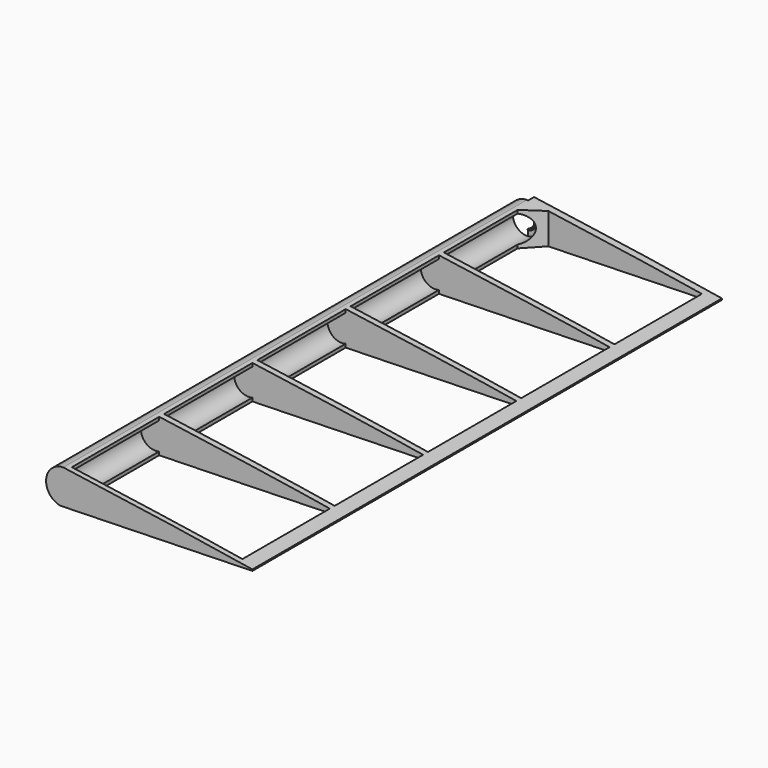
from build123d import *

# Parameters (mm, degrees)
PAD064_DEPTH    = 289
SKETCH154_W     = 106.454956
SKETCH154_H     = 336.690071
POCKET088_DEPTH = 2.5
POCKET089_DEPTH = 300
SKETCH156_W     = 84
SKETCH156_H     = 54.4
SKETCH156_H_2   = 53.8
POCKET090_DEPTH = 100
SKETCH157_R     = 7
POCKET091_DEPTH = 54.4
SKETCH158_R     = 7
POCKET092_DEPTH = 54.4
SKETCH159_R     = 7
POCKET093_DEPTH = 54.4
SKETCH160_R     = 7
POCKET094_DEPTH = 54.4
SKETCH161_R     = 7
POCKET095_DEPTH = 54.4
SKETCH162_R     = 4.05
POCKET096_DEPTH = 6
SKETCH243_R     = 4.5
SKETCH243_R_2   = 3.75
PAD113_DEPTH    = 0.5
CHAMFER007_SIZE = 0.45
SKETCH250_W     = 10.847717
SKETCH250_H     = 3.7
POCKET134_DEPTH = 50
POCKET135_DEPTH = 5
SKETCH251_R     = 0.8
POCKET136_DEPTH = 10


with BuildPart() as part:
    # Sketch152 → Pad064 (new body)
    with BuildSketch(Plane.XZ):
        with BuildLine():
            add(Edge.make_bspline(
                [(299.999063, 0.026825), (299.662766, 0.037193), (298.339429, 0.190401), (295.439956, 0.589669), (290.775356, 1.337839), (284.500044, 2.393262), (276.735212, 3.66473), (267.577355, 5.083019), (257.136483, 6.653879), (245.549215, 8.381993), (232.975291, 10.222771), (219.590016, 12.153256), (205.573823, 14.115503), (191.111579, 16.055183), (176.381713, 17.897983), (161.544489, 19.553409), (146.739309, 20.940939), (132.087536, 21.99009), (117.705275, 22.664279), (103.703346, 22.961168), (90.192549, 22.858072), (77.284675, 22.375726), (65.094168, 21.544938), (53.730431, 20.369385), (43.29002, 18.857963), (33.852484, 17.043697), (25.485501, 14.967735), (18.252292, 12.67281), (12.179436, 10.224412), (7.338355, 7.689021), (3.623023, 5.152403), (1.3546, 2.748114), (-0.314638, 0.590402), (0.575789, -1.804065), (3.482069, -2.72942), (7.386052, -3.91761), (13.030922, -4.754284), (20.096342, -5.463024), (28.645402, -5.933379), (38.56853, -6.201185), (49.790194, -6.284208), (62.196701, -6.193111), (75.660953, -5.967607), (90.034637, -5.629522), (105.153445, -5.226063), (120.83724, -4.775199), (136.895942, -4.296045), (153.13493, -3.818601), (169.356828, -3.345106), (185.36574, -2.889379), (200.968742, -2.465331), (215.974941, -2.074889), (230.201502, -1.715375), (243.47905, -1.394255), (255.639348, -1.103787), (266.55871, -0.849968), (276.034544, -0.603524), (284.209012, -0.340437), (290.324953, -0.117215), (295.955653, 0.018504), (297.364702, 0.013759), (300.343856, 0.01512), (300.000055, 0.026794), (299.999063, 0.026825)],
                knots=[0, 0, 0, 0, 1.017748, 3.99659, 8.779341, 15.189917, 23.087031, 32.383824, 42.990765, 54.76218, 67.530065, 81.114584, 95.333435, 109.988542, 124.889458, 139.866624, 154.774633, 169.496697, 183.930349, 197.964304, 211.506735, 224.45797, 236.709214, 248.156653, 258.723012, 268.346769, 276.97692, 284.567784, 291.102108, 296.573756, 300.992679, 304.39163, 306.761357, 308.43213, 311.131254, 315.298227, 320.951765, 328.080828, 336.654655, 346.609821, 357.866231, 370.316475, 383.83025, 398.264023, 413.449345, 429.202773, 445.334827, 461.646891, 477.940787, 494.021253, 509.693044, 524.767168, 539.054704, 552.387642, 564.607107, 575.560217, 585.109622, 593.180747, 599.700326, 604.53767, 607.540683, 608.560842, 608.563842, 608.563842, 608.563842, 608.563842], degree=3))
        make_face()
    extrude(amount=PAD064_DEPTH)

    # Sketch154 → Pocket088 (cut, symmetric)
    with BuildSketch(Plane.XY):
        with Locations((348.227478, -150.975887)):
            Rectangle(SKETCH154_W, SKETCH154_H)
    extrude(amount=POCKET088_DEPTH, both=True, mode=Mode.SUBTRACT)

    # Sketch155 (on Face4 of Pocket088) → Pocket089 (cut)
    with BuildSketch(Plane.XZ.offset(289)):
        with BuildLine():
            ThreePointArc((202, 14.6), (193.4, 6), (202, -2.6))
            Line((213.747525, -30.946017), (202, -2.6))
            Line((-22.89874, -30.946017), (213.747525, -30.946017))
            Line((-27.727513, 31.780215), (-22.89874, -30.946017))
            Line((188.968875, 46.453211), (-27.727513, 31.780215))
            Line((202, 14.6), (188.968875, 46.453211))
        make_face()
    extrude(amount=-POCKET089_DEPTH, mode=Mode.SUBTRACT)

    # Sketch156 (on DatumPlane) → Pocket090 (cut)
    with BuildSketch(Plane.XY.offset(24)):
        Polygon((204, -11.989348), (204, -57.4), (288, -57.4), (288, -3.6), (212.38935, -3.6), align=None)
        with Locations((246, -87.6)):
            Rectangle(SKETCH156_W, SKETCH156_H)
        with Locations((246, -145)):
            Rectangle(SKETCH156_W, SKETCH156_H)
        with Locations((246, -202.4)):
            Rectangle(SKETCH156_W, SKETCH156_H)
        with Locations((246, -259.5)):
            Rectangle(SKETCH156_W, SKETCH156_H_2)
    extrude(amount=-POCKET090_DEPTH, mode=Mode.SUBTRACT)

    # Sketch157 (on Face24 of Pocket090) → Pocket091 (cut)
    with BuildSketch(Plane.XZ.offset(3.6)):
        with Locations((202, 6)):
            Circle(SKETCH157_R)
    extrude(amount=POCKET091_DEPTH, mode=Mode.SUBTRACT)

    # Sketch158 (on Face19 of Pocket090) → Pocket092 (cut)
    with BuildSketch(Plane.XZ.offset(60.4)):
        with Locations((202, 6)):
            Circle(SKETCH158_R)
    extrude(amount=POCKET092_DEPTH, mode=Mode.SUBTRACT)

    # Sketch159 (on Face15 of Pocket090) → Pocket093 (cut)
    with BuildSketch(Plane.XZ.offset(117.8)):
        with Locations((202, 6)):
            Circle(SKETCH159_R)
    extrude(amount=POCKET093_DEPTH, mode=Mode.SUBTRACT)

    # Sketch160 (on Face11 of Pocket090) → Pocket094 (cut)
    with BuildSketch(Plane.XZ.offset(175.2)):
        with Locations((202, 6)):
            Circle(SKETCH160_R)
    extrude(amount=POCKET094_DEPTH, mode=Mode.SUBTRACT)

    # Sketch161 (on Face7 of Pocket090) → Pocket095 (cut)
    with BuildSketch(Plane.XZ.offset(232.6)):
        with Locations((202, 6)):
            Circle(SKETCH161_R)
    extrude(amount=POCKET095_DEPTH, mode=Mode.SUBTRACT)

    # Sketch162 (on Face2 of Pocket095) → Pocket096 (cut)
    with BuildSketch(Plane(origin=(0, 0, 0), x_dir=(1, 0, 0), z_dir=(0, 1, 0))):
        with Locations((202, -6)):
            Circle(SKETCH162_R)
    extrude(amount=-POCKET096_DEPTH, mode=Mode.SUBTRACT)

    # Sketch243 (on Face39 of Pocket096) → Pad113 (join)
    with BuildSketch(Plane.XZ.offset(3.6)):
        with Locations((202, 6)):
            Circle(SKETCH243_R)
        with Locations((202, 6)):
            Circle(SKETCH243_R_2, mode=Mode.SUBTRACT)
    extrude(amount=PAD113_DEPTH)

    # Chamfer007
    chamfer007_edges = [part.edges().sort_by_distance(p)[0] for p in [
        (197.5, -4.1, 6),
    ]]
    chamfer(chamfer007_edges, length=CHAMFER007_SIZE)

    # Sketch250 → Pocket134 (cut, symmetric)
    with BuildSketch(Plane.XY):
        with Locations((197.076142, -1.85)):
            Rectangle(SKETCH250_W, SKETCH250_H)
    extrude(amount=POCKET134_DEPTH, both=True, mode=Mode.SUBTRACT)

    # Pocket134 Face4 → Pocket135 (cut)
    with BuildSketch(Plane(origin=(199.590534, -3.7, 6), x_dir=(1, 0, 0), z_dir=(0, 1, 0))):
        with BuildLine():
            Line((2.909466, -4.421821), (2.909466, -3.716517))
            ThreePointArc((2.909466, -3.716517), (-1.340534, 0), (2.909466, 3.716517))
            Line((2.909466, 3.716517), (2.909466, 4.421821))
            ThreePointArc((2.909466, 4.421821), (-2.040534, 0), (2.909466, -4.421821))
        make_face()
    extrude(amount=-POCKET135_DEPTH, mode=Mode.SUBTRACT)

    # Sketch251 (on Face49 of Pocket135) → Pocket136 (cut)
    with BuildSketch(Plane(origin=(202.5, 0, 0), x_dir=(0, 0, -1), z_dir=(-1, 0, 0))):
        with Locations((-12.3, 1.8)):
            Circle(SKETCH251_R)
        with Locations((0.3, 1.8)):
            Circle(SKETCH251_R)
    extrude(amount=-POCKET136_DEPTH, mode=Mode.SUBTRACT)


with BuildPart() as part_1:
    # Body035 placement: moved
    add(part.part.moved(Location((0, -609, 0))))


solid = part_1.part
